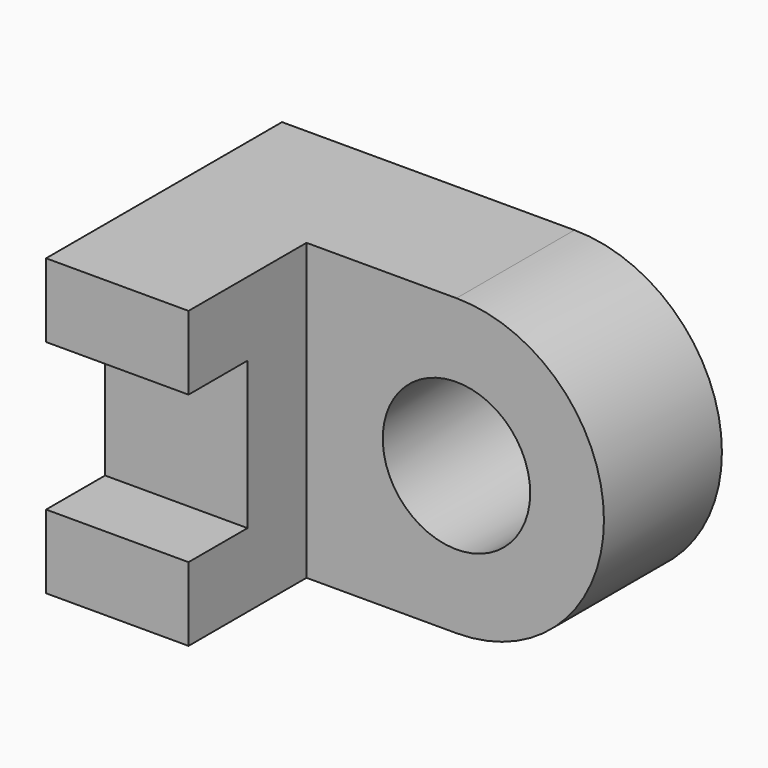
from build123d import *

# Parameters (mm, degrees)
F1_DEPTH = 25.4
F2_W     = 25.8318
F2_H     = 12.7
F3_DEPTH = 25.4
F5_DEPTH = 25.4
F6_W     = 6.35
F6_H     = 12.7
F7_DEPTH = 25.4
F8_R     = 6.35
F9_DEPTH = 25.4


with BuildPart() as f1:
    # F0 (on Front) → F1 (new body)
    with BuildSketch(Plane.XZ):
        Polygon((0, 25.4), (0, 0), (38.1, 0), (38.1, 25.4), (12.7, 25.4), align=None)
    extrude(amount=F1_DEPTH)

    # F2 (on face) → F3 (cut)
    with BuildSketch(Plane.XY.offset(25.4)):
        with Locations((25.1841, -19.05)):
            Rectangle(F2_W, F2_H)
    extrude(amount=-F3_DEPTH, mode=Mode.SUBTRACT)

    # F4 (on face) → F5 (cut)
    with BuildSketch(Plane.XZ.offset(12.7)):
        with BuildLine():
            Line((38.1, 25.4), (25.1841, 25.4))
            ThreePointArc((25.1841, 25.4), (37.8841, 12.7), (25.1841, 0))
            Line((25.1841, 0), (38.1, 0))
            Line((38.1, 0), (38.1, 25.4))
        make_face()
    extrude(amount=-F5_DEPTH, mode=Mode.SUBTRACT)

    # F6 (on face) → F7 (cut)
    with BuildSketch(Plane.YZ.offset(12.2682)):
        with Locations((-22.225, 12.7)):
            Rectangle(F6_W, F6_H)
    extrude(amount=-F7_DEPTH, mode=Mode.SUBTRACT)

    # F8 (on face) → F9 (cut)
    with BuildSketch(Plane.XZ.offset(12.7)):
        with Locations((25.1841, 12.7)):
            Circle(F8_R)
    extrude(amount=-F9_DEPTH, mode=Mode.SUBTRACT)


solid = f1.part
